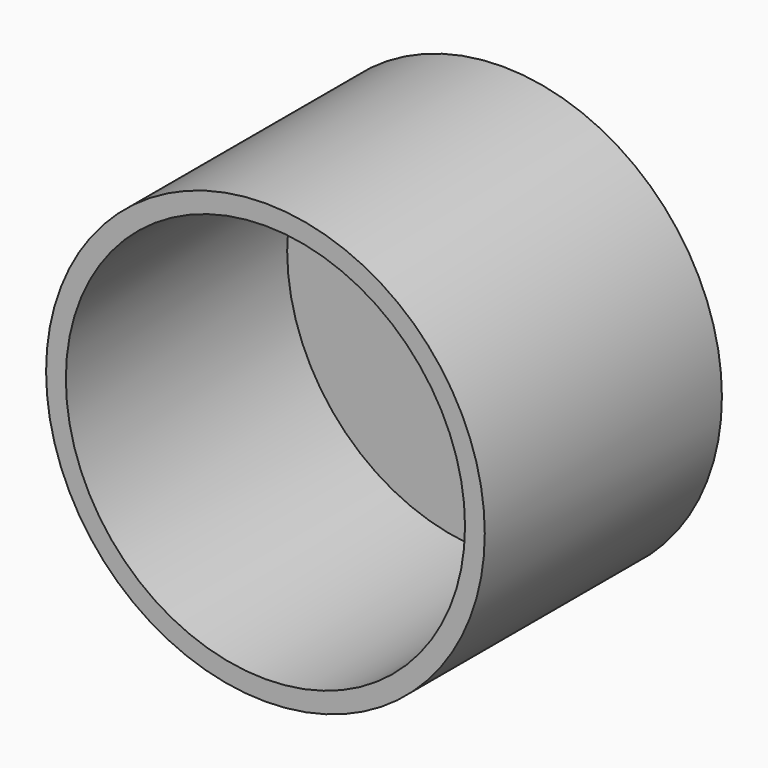
from build123d import *


with BuildPart() as part:
    # Sketch → Revolution (revolve)
    with BuildSketch(Plane.XY):
        Polygon((10.1, -8.282614), (10.1, 5.717386), (0.041586, 5.717386), (0.041586, 6.717386), (11.1, 6.717386), (11.1, -8.282614), align=None)
    revolve(axis=Axis((0, 0, 0), (0, 1, 0)))


solid = part.part
